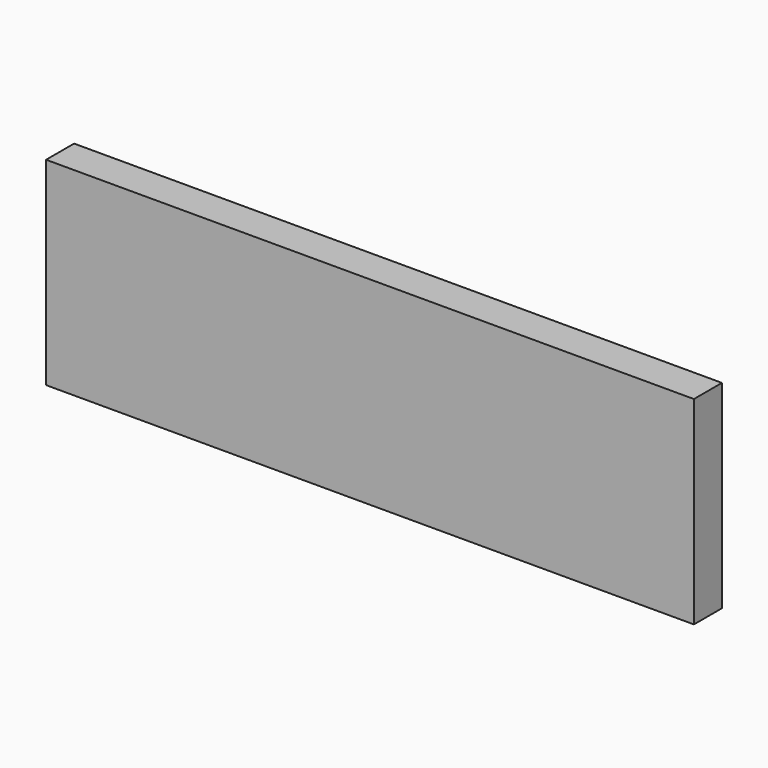
from build123d import *

# Parameters (mm, degrees)
F0_W      = 222
F0_H      = 68
F1_DEPTH  = 12
F2_W      = 3
F2_H      = 2.2371114204
F3_DEPTH  = 2230
F5_W      = 222
F5_H      = 68
F6_DEPTH  = 12
F7_W      = 3
F7_H      = 6.3245725577
F8_DEPTH  = 25.4
F9_W      = 3
F9_H      = 3
F10_DEPTH = 300
F11_W     = 3
F11_H     = 6.3245725577
F12_DEPTH = 12
F15_W     = 222
F15_H     = 68
F16_DEPTH = 12


with BuildPart() as f1:
    # F0 (on Right) → F1 (new body)
    with BuildSketch(Plane.YZ):
        Rectangle(F0_W, F0_H)
    extrude(amount=F1_DEPTH)

    # F2 (on face) → F3 (cut)
    with BuildSketch(Plane.XZ.offset(111)):
        with Locations((1.5, 22.7592512513)):
            Rectangle(F2_W, F2_H)
    extrude(amount=-F3_DEPTH, mode=Mode.SUBTRACT)


with BuildPart() as f6:
    # F5 (on Right) → F6 (new body)
    with BuildSketch(Plane.YZ):
        Rectangle(F5_W, F5_H)
    extrude(amount=F6_DEPTH)

    # F7 (on face) → F8 (cut)
    with BuildSketch(Plane(origin=(0, 0, 0), x_dir=(0, -1, 0), z_dir=(-1, 0, 0))):
        with Locations((-99.5, 30.8377137212)):
            Rectangle(F7_W, F7_H)
    extrude(amount=-F8_DEPTH, mode=Mode.SUBTRACT)

    # F9 (on face) → F10 (cut)
    with BuildSketch(Plane.XZ.offset(111)):
        with Locations((10.5, 22.5)):
            Rectangle(F9_W, F9_H)
    extrude(amount=-F10_DEPTH, mode=Mode.SUBTRACT)


with BuildPart() as f12:
    # F11 (on face) → F12 (new body)
    with BuildSketch(Plane.YZ.offset(12)):
        with Locations((99.5, 30.8377137212)):
            Rectangle(F11_W, F11_H)
    extrude(amount=-F12_DEPTH)


with BuildPart() as f16:
    # F15 (on Front) → F16 (new body)
    with BuildSketch(Plane.XZ):
        Rectangle(F15_W, F15_H)
    extrude(amount=F16_DEPTH)


solid = f16.part
